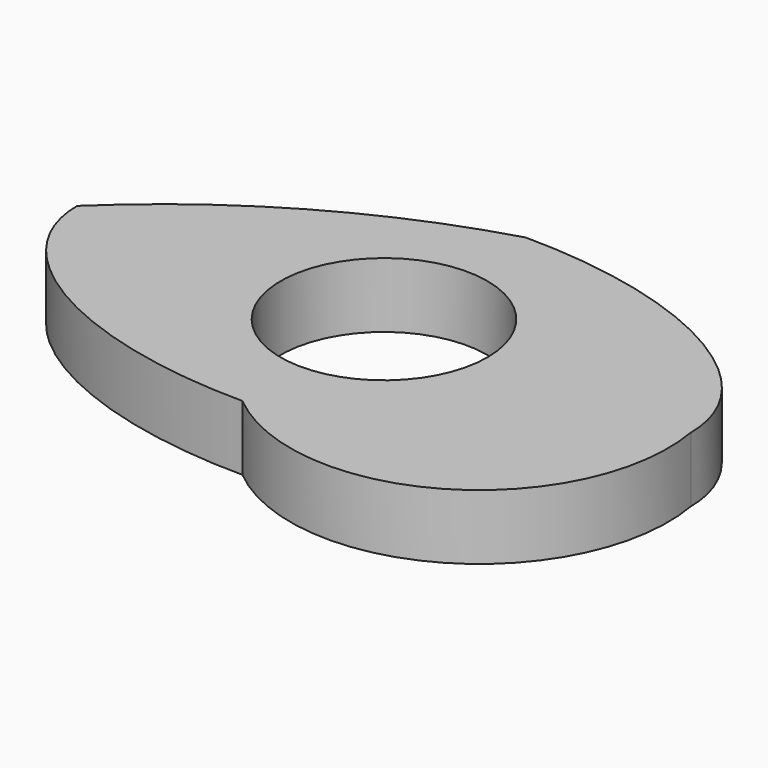
from build123d import *

# Parameters (mm, degrees)
F0_R     = 11.125
F1_DEPTH = 7


with BuildPart() as f1:
    # F0 (on Top) → F1 (new body)
    with BuildSketch(Plane.XY):
        with BuildLine():
            add(Edge.make_bspline(
                [(0, -19.05), (33.02, -19.05), (33.02, 0)],
                knots=[4.712389, 4.712389, 4.712389, 6.283185, 6.283185, 6.283185], degree=2, weights=[1, 0.707107, 1]))
            add(Edge.make_bspline(
                [(33.02, 0), (33.02, 19.05), (0, 19.05)],
                knots=[0, 0, 0, 1.570796, 1.570796, 1.570796], degree=2, weights=[1, 0.707107, 1]))
            ThreePointArc((0, 19.05), (-17.661277, 11.520547), (-33.02, 0))
            add(Edge.make_bspline(
                [(-33.02, 0), (-33.02, -19.05), (0, -19.05)],
                knots=[3.141593, 3.141593, 3.141593, 4.712389, 4.712389, 4.712389], degree=2, weights=[1, 0.707107, 1]))
        make_face()
        Circle(F0_R, mode=Mode.SUBTRACT)
        with BuildLine():
            add(Edge.make_bspline(
                [(0, -19.05), (33.02, -19.05), (33.02, 0)],
                knots=[4.712389, 4.712389, 4.712389, 6.283185, 6.283185, 6.283185], degree=2, weights=[1, 0.707107, 1]))
            add(Edge.make_bspline(
                [(33.02, 0), (33.02, 19.05), (0, 19.05)],
                knots=[0, 0, 0, 1.570796, 1.570796, 1.570796], degree=2, weights=[1, 0.707107, 1]))
            ThreePointArc((0, 19.05), (-17.661277, 11.520547), (-33.02, 0))
            add(Edge.make_bspline(
                [(-33.02, 0), (-33.02, -19.05), (0, -19.05)],
                knots=[3.141593, 3.141593, 3.141593, 4.712389, 4.712389, 4.712389], degree=2, weights=[1, 0.707107, 1]))
        make_face()
        Circle(F0_R, mode=Mode.SUBTRACT)
        with BuildLine():
            ThreePointArc((0, -19.05), (23.14507, -21.025787), (33.02, 0))
            add(Edge.make_bspline(
                [(0, -19.05), (33.02, -19.05), (33.02, 0)],
                knots=[4.712389, 4.712389, 4.712389, 6.283185, 6.283185, 6.283185], degree=2, weights=[1, 0.707107, 1]))
        make_face()
    extrude(amount=F1_DEPTH)


solid = f1.part
